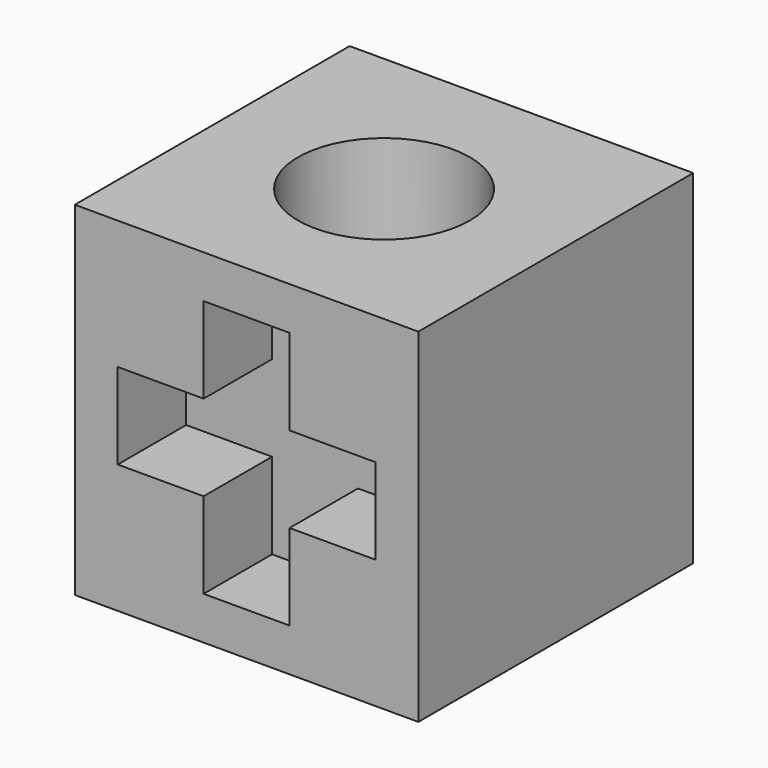
from build123d import *

# Parameters (mm, degrees)
F0_W     = 25.4
F0_H     = 25.4
F1_DEPTH = 12.7
F2_R     = 6.35
F3_DEPTH = 25.4
F5_DEPTH = 6.3246


with BuildPart() as f1:
    # F0 (on Front) → F1 (new body, symmetric)
    with BuildSketch(Plane.XZ):
        with Locations((12.7, 12.7)):
            Rectangle(F0_W, F0_H)
    extrude(amount=F1_DEPTH, both=True)

    # F2 (on face) → F3 (cut, through all)
    with BuildSketch(Plane.XY.offset(25.4)):
        with Locations((12.7, 0)):
            Circle(F2_R)
    extrude(amount=-F3_DEPTH, mode=Mode.SUBTRACT)

    # F4 (on face) → F5 (cut)
    with BuildSketch(Plane.XZ.offset(12.7)):
        Polygon((15.875, 22.225), (9.525, 22.225), (9.525, 15.875), (3.175, 15.875), (3.175, 9.525), (9.525, 9.525), (9.525, 3.175), (15.875, 3.175), (15.875, 9.525), (22.225, 9.525), (22.225, 15.875), (15.875, 15.875), align=None)
    extrude(amount=-F5_DEPTH, mode=Mode.SUBTRACT)


solid = f1.part
